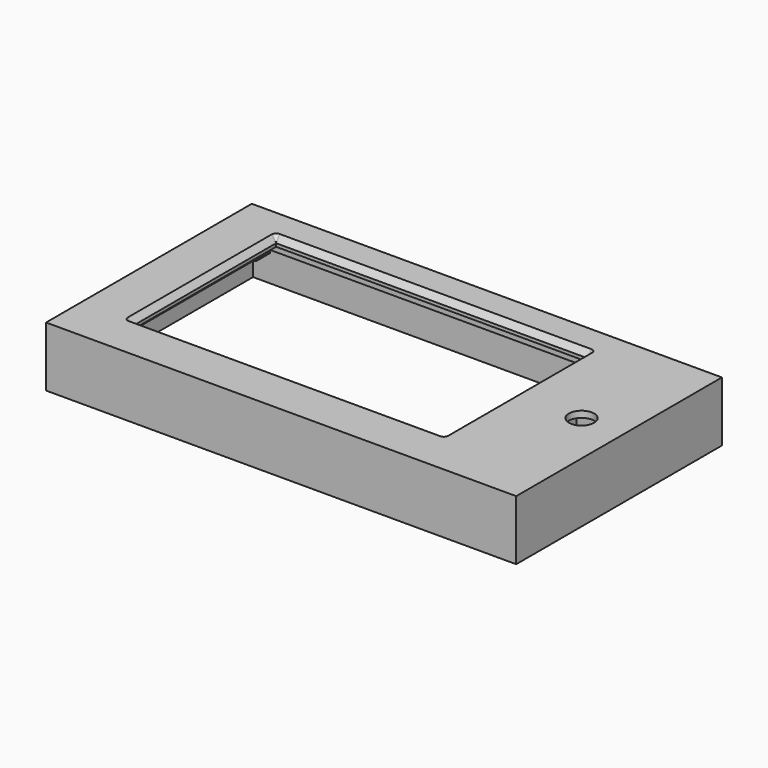
from build123d import *

# Parameters (mm, degrees)
SKETCH008_W     = 149
SKETCH008_H     = 81.5
SKETCH008_R     = 4
SKETCH008_W_2   = 98.75
SKETCH008_H_2   = 57
PAD006_DEPTH    = 2
SKETCH009_W     = 15.9
SKETCH009_H     = 15.4
SKETCH009_W_2   = 13.5
SKETCH009_H_2   = 13
SKETCH009_W_3   = 110.15
SKETCH009_H_3   = 71.65
SKETCH009_W_4   = 107.75
SKETCH009_H_4   = 69.25
PAD007_DEPTH    = 5
SKETCH010_W     = 107.75
SKETCH010_H     = 69.25
SKETCH010_W_2   = 98.75
SKETCH010_H_2   = 57
PAD008_DEPTH    = 1
PAD009_DEPTH    = 6.55
SKETCH012_R     = 1.375
POCKET002_DEPTH = 4
SKETCH014_W     = 149
SKETCH014_H     = 81.5
SKETCH014_W_2   = 145
SKETCH014_H_2   = 77.5
PAD011_DEPTH    = 17
POCKET003_DEPTH = 98.75
POCKET004_DEPTH = 57


with BuildPart() as part:
    # Sketch008 (on Face27 of Binder) → Pad006 (new body)
    with BuildSketch(Plane.XY.offset(8.3)):
        with Locations((70.5, 36.75)):
            Rectangle(SKETCH008_W, SKETCH008_H)
        with Locations((131.5, 38.75)):
            Circle(SKETCH008_R, mode=Mode.SUBTRACT)
        with Locations((60.875, 39.25)):
            Rectangle(SKETCH008_W_2, SKETCH008_H_2, mode=Mode.SUBTRACT)
    extrude(amount=PAD006_DEPTH)

    # Sketch009 (on Face10 of Pad006) → Pad007 (join)
    with BuildSketch(Plane(origin=(0, 0, 8.3), x_dir=(1, 0, 0), z_dir=(0, 0, -1))):
        with Locations((131.5, -38.75)):
            Rectangle(SKETCH009_W, SKETCH009_H)
        with Locations((131.5, -38.75)):
            Rectangle(SKETCH009_W_2, SKETCH009_H_2, mode=Mode.SUBTRACT)
        with Locations((60.875, -36.875)):
            Rectangle(SKETCH009_W_3, SKETCH009_H_3)
        with Locations((60.875, -36.875)):
            Rectangle(SKETCH009_W_4, SKETCH009_H_4, mode=Mode.SUBTRACT)
    extrude(amount=PAD007_DEPTH)

    # Sketch010 (on Face4 of Pad007) → Pad008 (join)
    with BuildSketch(Plane(origin=(0, 0, 8.3), x_dir=(1, 0, 0), z_dir=(0, 0, -1))):
        with Locations((60.875, -36.875)):
            Rectangle(SKETCH010_W, SKETCH010_H)
        with Locations((60.875, -39.25)):
            Rectangle(SKETCH010_W_2, SKETCH010_H_2, mode=Mode.SUBTRACT)
    extrude(amount=PAD008_DEPTH)

    # Sketch011 (on Face4 of Pad008) → Pad009 (join)
    with BuildSketch(Plane(origin=(0, 0, 8.3), x_dir=(1, 0, 0), z_dir=(0, 0, -1))):
        with BuildLine():
            ThreePointArc((5.8, -0.996823), (-0.5835, -3.6665), (5.8, -6.336177))
            Line((5.8, -0.996823), (5.8, -6.336177))
        make_face()
        with BuildLine():
            ThreePointArc((5.8, -67.163823), (-0.5835, -69.8335), (5.8, -72.503177))
            Line((5.8, -67.163823), (5.8, -72.503177))
        make_face()
        with BuildLine():
            ThreePointArc((115.95, -72.76902), (122.0335, -69.8335), (115.95, -66.89798))
            Line((115.95, -72.76902), (115.95, -66.89798))
        make_face()
        with BuildLine():
            ThreePointArc((115.95, -6.60202), (122.0335, -3.6665), (115.95, -0.73098))
            Line((115.95, -0.73098), (115.95, -6.60202))
        make_face()
    extrude(amount=PAD009_DEPTH)

    # Sketch012 (on Face32 of Pad009) → Pocket002 (cut)
    with BuildSketch(Plane(origin=(0, 0, 1.75), x_dir=(1, 0, 0), z_dir=(0, 0, -1))):
        with Locations((118.2835, -3.6665)):
            Circle(SKETCH012_R)
        with Locations((118.2835, -69.8335)):
            Circle(SKETCH012_R)
        with Locations((3.1665, -69.8335)):
            Circle(SKETCH012_R)
        with Locations((3.1665, -3.6665)):
            Circle(SKETCH012_R)
    extrude(amount=-POCKET002_DEPTH, mode=Mode.SUBTRACT)

    # Sketch014 (on Face4 of Pocket002) → Pad011 (join)
    with BuildSketch(Plane(origin=(0, 0, 8.3), x_dir=(1, 0, 0), z_dir=(0, 0, -1))):
        with Locations((70.5, -36.75)):
            Rectangle(SKETCH014_W, SKETCH014_H)
        with Locations((70.5, -36.75)):
            Rectangle(SKETCH014_W_2, SKETCH014_H_2, mode=Mode.SUBTRACT)
    extrude(amount=PAD011_DEPTH)

    # Sketch015 (on Face10 of Pad011) → Pocket003 (cut)
    with BuildSketch(Plane.YZ.offset(11.5)):
        Polygon((67.75, 8.3), (67.75, 10.3), (69.150415, 10.3), align=None)
        Polygon((10.75, 8.3), (10.75, 10.3), (9.349585, 10.3), align=None)
    extrude(amount=POCKET003_DEPTH, mode=Mode.SUBTRACT)

    # Sketch016 (on Face28 of Pocket003) → Pocket004 (cut)
    with BuildSketch(Plane(origin=(0, 10.75, 0), x_dir=(-1, 0, 0), z_dir=(0, 1, 0))):
        Polygon((-110.25, 8.3), (-110.25, 10.3), (-111.650415, 10.3), align=None)
        Polygon((-11.5, 8.3), (-10.099585, 10.3), (-11.5, 10.3), align=None)
    extrude(amount=POCKET004_DEPTH, mode=Mode.SUBTRACT)

    # Sketch017 (on Face19 of Pocket004) → Groove (revolve, cut)
    with BuildSketch(Plane(origin=(0, 10.75, 0), x_dir=(-1, 0, 0), z_dir=(0, 1, 0))):
        Polygon((-110.25, 10.3), (-111.650415, 10.3), (-110.25, 8.3), align=None)
    revolve(axis=Axis((110.25, 10.75, 9.3), (0, 0, 1)), mode=Mode.SUBTRACT)

    # Sketch018 (on Face17 of Groove) → Groove001 (revolve, cut)
    with BuildSketch(Plane.XZ.offset(-67.75)):
        Polygon((111.650415, 10.3), (110.25, 10.3), (110.25, 8.3), align=None)
    revolve(axis=Axis((110.25, 67.75, 9.3), (0, 0, 1)), mode=Mode.SUBTRACT)

    # Sketch019 (on Face14 of Groove001) → Groove002 (revolve, cut)
    with BuildSketch(Plane.YZ.offset(11.5)):
        Polygon((67.75, 8.3), (69.150415, 10.3), (67.75, 10.3), align=None)
    revolve(axis=Axis((11.5, 67.75, 9.3), (0, 0, 1)), mode=Mode.SUBTRACT)

    # Sketch020 (on Face11 of Groove002) → Groove003 (revolve, cut)
    with BuildSketch(Plane(origin=(0, 10.75, 0), x_dir=(-1, 0, 0), z_dir=(0, 1, 0))):
        Polygon((-11.5, 8.3), (-10.099585, 10.3), (-11.5, 10.3), align=None)
    revolve(axis=Axis((11.5, 10.75, 9.3), (0, 0, -1)), mode=Mode.SUBTRACT)


solid = part.part
